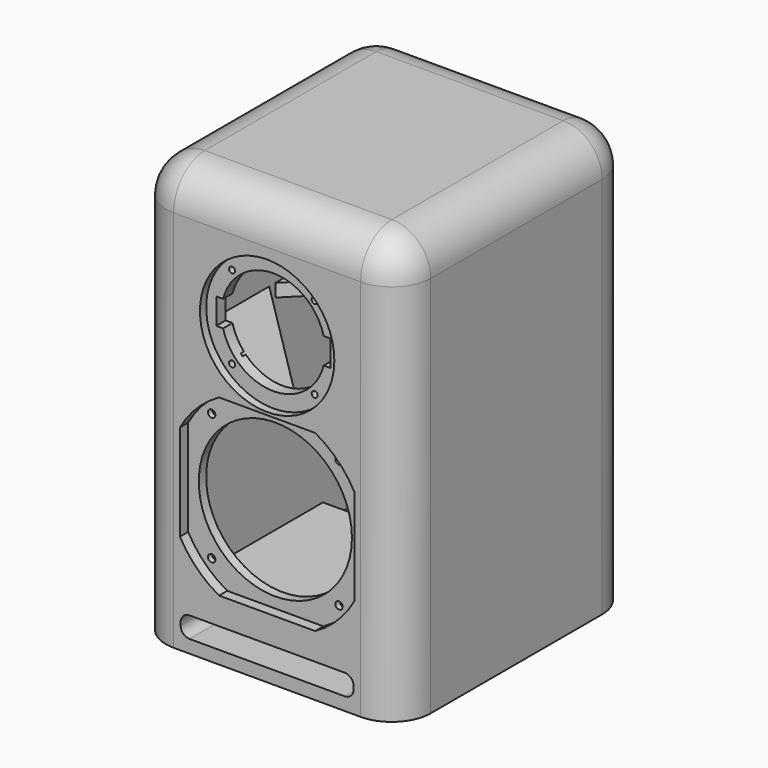
from build123d import *

# Parameters (mm, degrees)
BOX008_W               = 6.5
BOX008_H               = 20
BOX008_DEPTH           = 10.5
BOX007_W               = 6.5
BOX007_H               = 20
BOX007_DEPTH           = 10.5
BOX009_W               = 6.5
BOX009_H               = 20
BOX009_DEPTH           = 10.5
BOX010_W               = 6.5
BOX010_H               = 20
BOX010_DEPTH           = 10.5
BOX011_W               = 6.5
BOX011_H               = 20
BOX011_DEPTH           = 10.5
BOX013_W               = 6.5
BOX013_H               = 20
BOX013_DEPTH           = 10.5
BOX012_W               = 6.5
BOX012_H               = 20
BOX012_DEPTH           = 10.5
BOX006_W               = 6.5
BOX006_H               = 20
BOX006_DEPTH           = 10.5
SKETCH008_W            = 28
SKETCH008_H            = 33
EXTRUDE001_DEPTH       = 4.5
SKETCH007_R            = 13
SKETCH007_R_2          = 1.65
EXTRUDE_DEPTH          = 40
BOX002_W               = 133.36
BOX002_H               = 150
BOX002_DEPTH           = 16
FILLET002_R            = 7
BOX003_W               = 154
BOX003_H               = 140
BOX003_DEPTH           = 26
SKETCH004_R            = 51.75
PAD003_DEPTH           = 6
PAD004_DEPTH           = 35
SKETCH006_R            = 2.35
PAD005_DEPTH           = 35
PAD_DEPTH              = 7.9
SKETCH002_R            = 59
PAD001_DEPTH           = 25
SKETCH003_R            = 2.85
PAD002_DEPTH           = 34
BOX_W                  = 184
BOX_H                  = 200
BOX_DEPTH              = 305
FILLET_R               = 20
BOX001_W               = 204
BOX001_H               = 225
BOX001_DEPTH           = 325
FILLET001_R            = 30
BOX004_W               = 141
BOX004_H               = 132
BOX004_DEPTH           = 10
BOX004_PLACEMENT_ANGLE = 45
BOX005_W               = 184
BOX005_H               = 203
BOX005_DEPTH           = 10


with BuildPart() as cubo006:
    # Box008 → Box008 (new body)
    with BuildSketch(Plane(origin=(-52.5, 0, 60), x_dir=(1, 0, 0), z_dir=(0, 0, 1))):
        with Locations((3.25, 10)):
            Rectangle(BOX008_W, BOX008_H)
    extrude(amount=BOX008_DEPTH)


with BuildPart() as cubo005:
    # Box007 → Box007 (new body)
    with BuildSketch(Plane(origin=(46, 0, 158), x_dir=(1, 0, 0), z_dir=(0, 0, 1))):
        with Locations((3.25, 10)):
            Rectangle(BOX007_W, BOX007_H)
    extrude(amount=BOX007_DEPTH)


with BuildPart() as cubo007:
    # Box009 → Box009 (new body)
    with BuildSketch(Plane(origin=(-52.5, 0, 158), x_dir=(1, 0, 0), z_dir=(0, 0, 1))):
        with Locations((3.25, 10)):
            Rectangle(BOX009_W, BOX009_H)
    extrude(amount=BOX009_DEPTH)


with BuildPart() as cubo008:
    # Box010 → Box010 (new body)
    with BuildSketch(Plane(origin=(28.5, 0, 198), x_dir=(1, 0, 0), z_dir=(0, 0, 1))):
        with Locations((3.25, 10)):
            Rectangle(BOX010_W, BOX010_H)
    extrude(amount=BOX010_DEPTH)


with BuildPart() as cubo009:
    # Box011 → Box011 (new body)
    with BuildSketch(Plane(origin=(28.5, 0, 262), x_dir=(1, 0, 0), z_dir=(0, 0, 1))):
        with Locations((3.25, 10)):
            Rectangle(BOX011_W, BOX011_H)
    extrude(amount=BOX011_DEPTH)


with BuildPart() as cubo011:
    # Box013 → Box013 (new body)
    with BuildSketch(Plane(origin=(-35, 0, 198), x_dir=(1, 0, 0), z_dir=(0, 0, 1))):
        with Locations((3.25, 10)):
            Rectangle(BOX013_W, BOX013_H)
    extrude(amount=BOX013_DEPTH)


with BuildPart() as cubo010:
    # Box012 → Box012 (new body)
    with BuildSketch(Plane(origin=(-35, 0, 262), x_dir=(1, 0, 0), z_dir=(0, 0, 1))):
        with Locations((3.25, 10)):
            Rectangle(BOX012_W, BOX012_H)
    extrude(amount=BOX012_DEPTH)


with BuildPart() as obj1:
    # Box006 → Box006 (new body)
    with BuildSketch(Plane(origin=(46, 0, 60), x_dir=(1, 0, 0), z_dir=(0, 0, 1))):
        with Locations((3.25, 10)):
            Rectangle(BOX006_W, BOX006_H)
    extrude(amount=BOX006_DEPTH)

    # Fusion003: union Cubo006, Cubo005, Cubo007, Cubo008, Cubo009, Cubo011, Cubo010
    add(cubo006.part)
    add(cubo005.part)
    add(cubo007.part)
    add(cubo008.part)
    add(cubo009.part)
    add(cubo011.part)
    add(cubo010.part)


with BuildPart() as obj1_1:
    # Fusion003 placement: moved
    add(obj1.part.moved(Location((0, 12, 0))))


with BuildPart() as extrude001:
    # Sketch008 → Extrude001 (new body)
    with BuildSketch(Plane.XZ):
        with Locations((0, 120)):
            Rectangle(SKETCH008_W, SKETCH008_H)
    extrude(amount=EXTRUDE001_DEPTH)


with BuildPart() as extrude001_1:
    # Extrude001 placement: moved
    add(extrude001.part.moved(Location((0, 220, 0))))


with BuildPart() as conector:
    # Sketch007 → Extrude (new body)
    with BuildSketch(Plane.XZ):
        with Locations((0, 120)):
            Circle(SKETCH007_R)
        with Locations((9.5, 132)):
            Circle(SKETCH007_R_2)
        with Locations((-9.5, 108)):
            Circle(SKETCH007_R_2)
    extrude(amount=EXTRUDE_DEPTH)


with BuildPart() as conector_1:
    # Extrude placement: moved
    add(conector.part.moved(Location((0, 226, 0))))

    # Fusion: union Extrude001
    add(extrude001_1.part)


with BuildPart() as conector_2:
    # Fusion placement: moved
    add(conector_1.part.moved(Location((0, 5, 0))))


with BuildPart() as fusion002:
    # Box002 → Box002 (new body)
    with BuildSketch(Plane(origin=(-66.68, 0, 10), x_dir=(1, 0, 0), z_dir=(0, 0, 1))):
        with Locations((66.68, 75)):
            Rectangle(BOX002_W, BOX002_H)
    extrude(amount=BOX002_DEPTH)

    # Fillet002
    fillet002_edges = [fusion002.edges().sort_by_distance(p)[0] for p in [
        (-66.68, 75, 26),
        (-66.68, 75, 10),
        (66.68, 75, 26),
        (66.68, 75, 10),
    ]]
    fillet(fillet002_edges, radius=FILLET002_R)

    # Fusion002: union Conector
    add(conector_2.part)


with BuildPart() as puerto:
    # Box003 → Box003 (new body)
    with BuildSketch(Plane(origin=(-77, 10, 10), x_dir=(1, 0, 0), z_dir=(0, 0, 1))):
        with Locations((77, 70)):
            Rectangle(BOX003_W, BOX003_H)
    extrude(amount=BOX003_DEPTH)


with BuildPart() as obj2:
    # Sketch004 → Pad003 (new body)
    with BuildSketch(Plane.XZ):
        with Locations((0, 235)):
            Circle(SKETCH004_R)
    extrude(amount=-PAD003_DEPTH)

    # Sketch005 → Pad004 (join)
    with BuildSketch(Plane.XZ):
        with BuildLine():
            Line((-38.729833, 225), (-44, 225))
            Line((-44, 225), (-44, 245))
            Line((-44, 245), (-38.729833, 245))
            ThreePointArc((38.729833, 245), (0, 275), (-38.729833, 245))
            Line((38.729833, 245), (44, 245))
            Line((44, 245), (44, 225))
            Line((44, 225), (38.729833, 225))
            ThreePointArc((-38.729833, 225), (0, 195), (38.729833, 225))
        make_face()
    extrude(amount=-PAD004_DEPTH)

    # Sketch006 → Pad005 (join)
    with BuildSketch(Plane.XZ):
        with Locations((-31.82, 266.819221)):
            Circle(SKETCH006_R)
        with Locations((31.82, 266.819221)):
            Circle(SKETCH006_R)
        with Locations((31.82, 203.18)):
            Circle(SKETCH006_R)
        with Locations((-31.82, 203.18)):
            Circle(SKETCH006_R)
    extrude(amount=-PAD005_DEPTH)


with BuildPart() as obj3:
    # Sketch → Pad (new body)
    with BuildSketch(Plane.XZ):
        with BuildLine():
            Line((-37.019041, 181.175), (37.019041, 181.175))
            ThreePointArc((67.175, 151.019041), (54.23509, 168.23509), (37.019041, 181.175))
            Line((67.175, 151.019041), (67.175, 76.980959))
            ThreePointArc((37.019041, 46.825), (54.23509, 59.76491), (67.175, 76.980959))
            Line((37.019041, 46.825), (-37.019041, 46.825))
            ThreePointArc((-67.175, 76.980959), (-54.23509, 59.76491), (-37.019041, 46.825))
            Line((-67.175, 76.980959), (-67.175, 151.019041))
            ThreePointArc((-37.019041, 181.175), (-54.23509, 168.23509), (-67.175, 151.019041))
        make_face()
    extrude(amount=-PAD_DEPTH)

    # Sketch002 → Pad001 (join)
    with BuildSketch(Plane.XZ):
        with Locations((0, 114)):
            Circle(SKETCH002_R)
    extrude(amount=-PAD001_DEPTH)

    # Sketch003 → Pad002 (join)
    with BuildSketch(Plane.XZ):
        with Locations((-49.0732, 163.07)):
            Circle(SKETCH003_R)
        with Locations((49.0732, 163.07)):
            Circle(SKETCH003_R)
        with Locations((49.0732, 64.93)):
            Circle(SKETCH003_R)
        with Locations((-49.0732, 64.93)):
            Circle(SKETCH003_R)
    extrude(amount=-PAD002_DEPTH)


with BuildPart() as obj4:
    # Box → Box (new body)
    with BuildSketch(Plane(origin=(-92, 15, 10), x_dir=(1, 0, 0), z_dir=(0, 0, 1))):
        with Locations((92, 100)):
            Rectangle(BOX_W, BOX_H)
    extrude(amount=BOX_DEPTH)

    # Fillet
    fillet_edges = [obj4.edges().sort_by_distance(p)[0] for p in [
        (-92, 15, 162.5),
        (-92, 115, 315),
        (-92, 215, 162.5),
        (92, 15, 162.5),
        (92, 115, 315),
        (92, 215, 162.5),
        (0, 15, 315),
        (0, 215, 315),
    ]]
    fillet(fillet_edges, radius=FILLET_R)


with BuildPart() as cut002:
    # Box001 → Box001 (new body)
    with BuildSketch(Plane(origin=(-102, 0, 0), x_dir=(1, 0, 0), z_dir=(0, 0, 1))):
        with Locations((102, 112.5)):
            Rectangle(BOX001_W, BOX001_H)
    extrude(amount=BOX001_DEPTH)

    # Fillet001
    fillet001_edges = [cut002.edges().sort_by_distance(p)[0] for p in [
        (-102, 0, 162.5),
        (-102, 112.5, 325),
        (-102, 225, 162.5),
        (102, 0, 162.5),
        (102, 112.5, 325),
        (102, 225, 162.5),
        (0, 0, 325),
        (0, 225, 325),
    ]]
    fillet(fillet001_edges, radius=FILLET001_R)

    # Cut: cut obj4
    add(obj4.part, mode=Mode.SUBTRACT)

    # Cut001: cut obj3
    add(obj3.part, mode=Mode.SUBTRACT)

    # Cut002: cut obj2
    add(obj2.part, mode=Mode.SUBTRACT)


with BuildPart() as cubo002:
    # Box004 → Box004 (new body)
    with BuildSketch(Plane.XY):
        with Locations((70.5, 66)):
            Rectangle(BOX004_W, BOX004_H)
    extrude(amount=BOX004_DEPTH)


with BuildPart() as cubo002_1:
    # Box004 placement: moved
    add(cubo002.part.moved(Location((-95, 120, 0))).rotate(Axis((-95, 120, 0), (0, 0, -1)), BOX004_PLACEMENT_ANGLE))


with BuildPart() as cut005:
    # Box005 → Box005 (new body)
    with BuildSketch(Plane(origin=(-92, 13, 0), x_dir=(1, 0, 0), z_dir=(0, 0, 1))):
        with Locations((92, 101.5)):
            Rectangle(BOX005_W, BOX005_H)
    extrude(amount=BOX005_DEPTH)

    # Cut003: cut Cubo002
    add(cubo002_1.part, mode=Mode.SUBTRACT)


with BuildPart() as cut005_1:
    # Cut003 placement: moved
    add(cut005.part.moved(Location((0, 0, 181))))

    # Fusion001: union Puerto, Cut002
    add(puerto.part)
    add(cut002.part)

    # Cut004: cut Fusion002
    add(fusion002.part, mode=Mode.SUBTRACT)

    # Cut005: cut obj1
    add(obj1_1.part, mode=Mode.SUBTRACT)


solid = cut005_1.part
